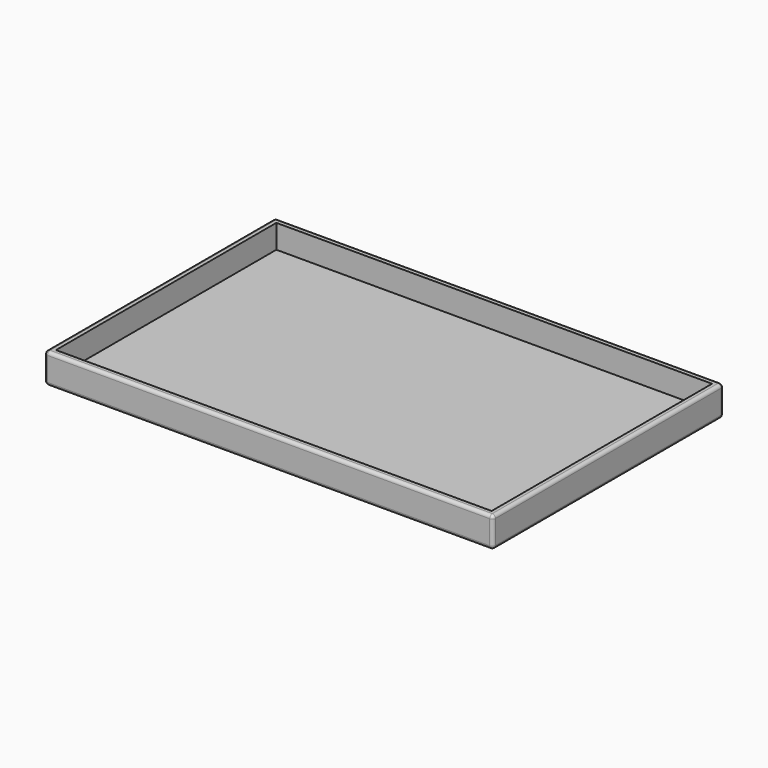
from build123d import *

# Parameters (mm, degrees)
F0_W     = 355.6
F0_H     = 228.6
F1_DEPTH = 11.938
F2_T     = -5.08
F3_R     = 2.54


with BuildPart() as f1:
    # F0 (on Top) → F1 (new body, symmetric)
    with BuildSketch(Plane.XY):
        Rectangle(F0_W, F0_H)
    extrude(amount=F1_DEPTH, both=True)

    # F2
    f2_openings = [f1.faces().sort_by_distance(p)[0] for p in [
        (0, 0, 11.938),
    ]]
    offset(amount=F2_T, openings=f2_openings)

    # F3
    f3_edges = [f1.edges().sort_by_distance(p)[0] for p in [
        (-177.8, 114.3, 0),
        (-177.8, 0, -11.938),
        (-177.8, -114.3, 0),
        (-177.8, 0, 11.938),
        (0, -114.3, -11.938),
        (177.8, -114.3, 0),
        (0, -114.3, 11.938),
        (177.8, 0, -11.938),
        (177.8, 114.3, 0),
        (177.8, 0, 11.938),
        (0, 114.3, -11.938),
        (0, 114.3, 11.938),
    ]]
    fillet(f3_edges, radius=F3_R)


solid = f1.part
